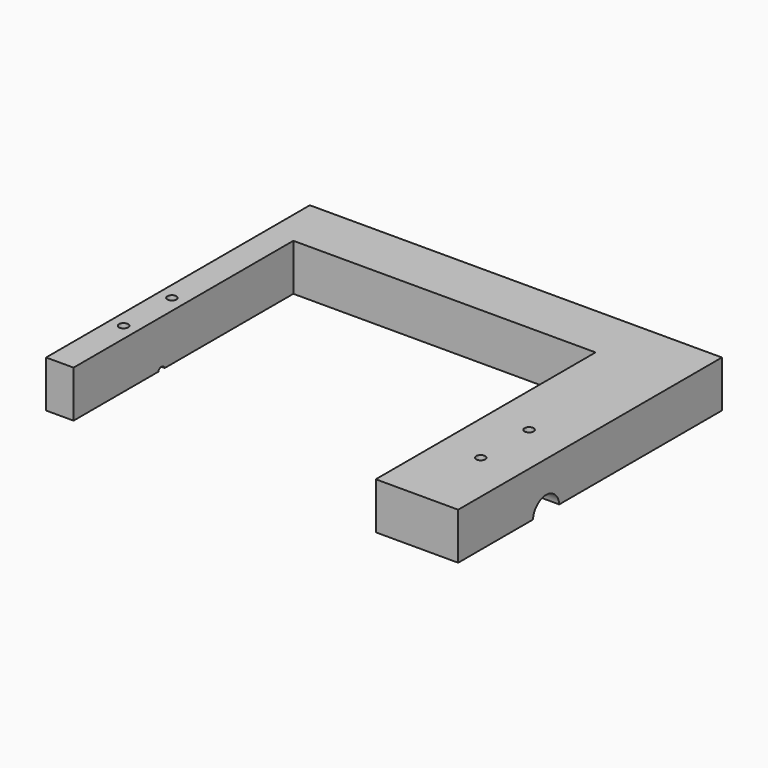
from build123d import *

# Parameters (mm, degrees)
F0_W      = 150
F0_H      = 120
F1_DEPTH  = 30
F3_W      = 110
F3_H      = 100
F4_DEPTH  = 30
F5_DEPTH  = 4
F6_R      = 3.8
F7_DEPTH  = 2
F8_R      = 1.55
F9_DEPTH  = 7
F10_R     = 6
F12_DEPTH = 30
F11_R     = 0.5
F13_DEPTH = 1
F14_W     = 150
F14_H     = 120
F15_DEPTH = 13
F16_R     = 1.65
F17_DEPTH = 30


with BuildPart() as f1:
    # F0 (on Top) → F1 (new body)
    with BuildSketch(Plane.XY):
        Rectangle(F0_W, F0_H)
    extrude(amount=F1_DEPTH)

    # F3 (on Top) → F4 (cut, through all)
    with BuildSketch(Plane.XY):
        with Locations((-10, -10)):
            Rectangle(F3_W, F3_H)
    extrude(amount=F4_DEPTH, mode=Mode.SUBTRACT)

    # F2 (on face) → F5 (cut)
    with BuildSketch(Plane(origin=(-75, 0, 0), x_dir=(0, -1, 0), z_dir=(-1, 0, 0))):
        Polygon((20, 17.12), (15.998963, 14.81), (15.998963, 10.19), (20, 7.88), (24.001037, 10.19), (24.001037, 14.81), align=None)
    extrude(amount=-F5_DEPTH, mode=Mode.SUBTRACT)

    # F6 (on face) → F7 (cut)
    with BuildSketch(Plane(origin=(-71, 0, 0), x_dir=(0, -1, 0), z_dir=(-1, 0, 0))):
        with Locations((20, 12.5)):
            Circle(F6_R)
    extrude(amount=-F7_DEPTH, mode=Mode.SUBTRACT)

    # F8 (on face) → F9 (cut)
    with BuildSketch(Plane(origin=(-69, 0, 0), x_dir=(0, -1, 0), z_dir=(-1, 0, 0))):
        with Locations((20, 12.5)):
            Circle(F8_R)
    extrude(amount=-F9_DEPTH, mode=Mode.SUBTRACT)

    # F10 (on face) → F12 (cut, through all)
    with BuildSketch(Plane.YZ.offset(75)):
        with Locations((-20, 12.5)):
            Circle(F10_R)
    extrude(amount=-F12_DEPTH, mode=Mode.SUBTRACT)

    # F11 (on face) → F13 (cut)
    with BuildSketch(Plane(origin=(0, 60, 0), x_dir=(-1, 0, 0), z_dir=(0, 1, 0))):
        with Locations((20, 6)):
            Circle(F11_R)
        with Locations((-5, 6)):
            Circle(F11_R)
    extrude(amount=-F13_DEPTH, mode=Mode.SUBTRACT)

    # F14 (on Top) → F15 (cut)
    with BuildSketch(Plane.XY):
        Rectangle(F14_W, F14_H)
    extrude(amount=F15_DEPTH, mode=Mode.SUBTRACT)

    # F16 (on Top) → F17 (cut, through all)
    with BuildSketch(Plane.XY):
        with Locations((-70, -9)):
            Circle(F16_R)
        with Locations((-70, -31)):
            Circle(F16_R)
        with Locations((60, -9)):
            Circle(F16_R)
        with Locations((60, -31)):
            Circle(F16_R)
    extrude(amount=F17_DEPTH, mode=Mode.SUBTRACT)


solid = f1.part
